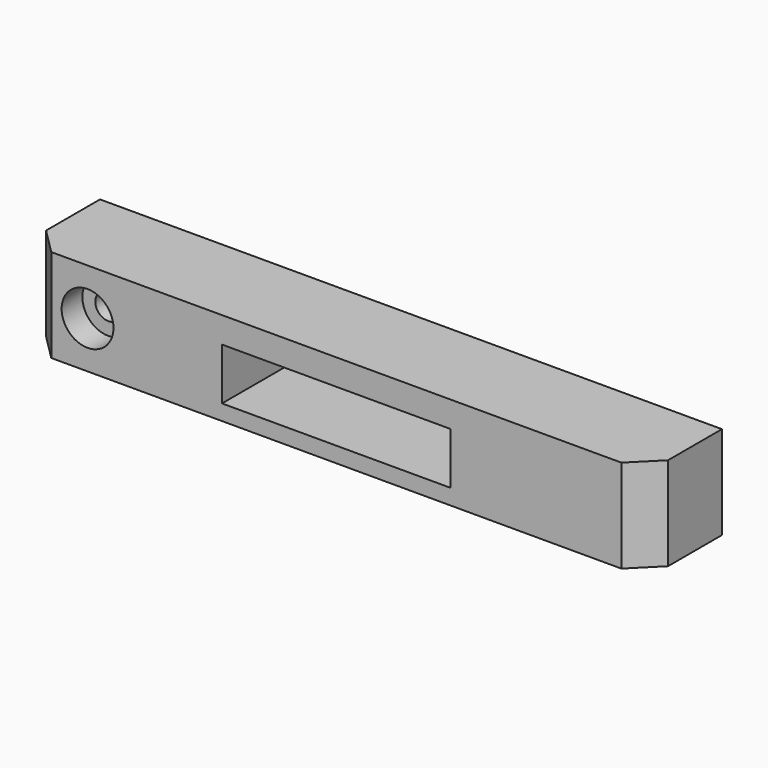
from build123d import *

# Parameters (mm, degrees)
F0_W           = 120
F0_H           = 18
F1_DEPTH       = 9
F2_W           = 44.108732
F2_H           = 10
F3_DEPTH       = 25
F5_D           = 5
F5_CBORE_D     = 10
F5_CBORE_DEPTH = 5
F6_SIZE        = 5


with BuildPart() as f1:
    # F0 (on Top) → F1 (new body, symmetric)
    with BuildSketch(Plane.XY):
        Rectangle(F0_W, F0_H)
    extrude(amount=F1_DEPTH, both=True)

    # F2 (on face) → F3 (cut)
    with BuildSketch(Plane.XZ.offset(9)):
        with Locations((0, -1)):
            Rectangle(F2_W, F2_H)
    extrude(amount=-F3_DEPTH, mode=Mode.SUBTRACT)

    # F5 (through all)
    with Locations(Plane.XZ.offset(9)):
        with Locations((-48, 0)):
            CounterBoreHole(F5_D / 2, F5_CBORE_D / 2, F5_CBORE_DEPTH)

    # F6
    f6_edges = [f1.edges().sort_by_distance(p)[0] for p in [
        (60, -9, 0),
        (-60, -9, 0),
    ]]
    chamfer(f6_edges, length=F6_SIZE)


solid = f1.part
